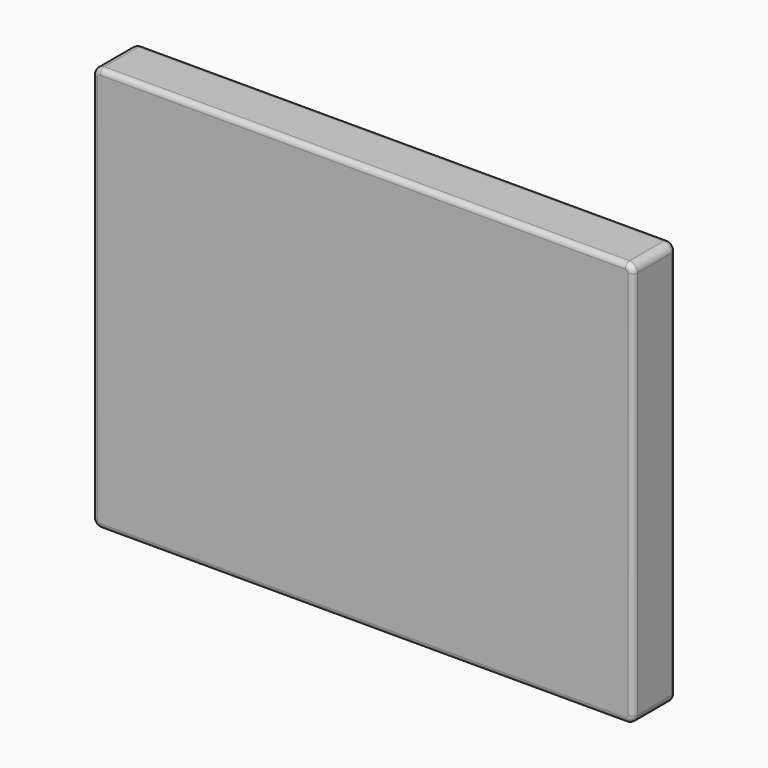
from build123d import *

# Parameters (mm, degrees)
F0_W     = 2030
F0_H     = 1520
F1_DEPTH = 200
F2_R     = 30
F3_R     = 20


with BuildPart() as f1:
    # F0 (on Front) → F1 (new body)
    with BuildSketch(Plane.XZ):
        with Locations((1015, 760)):
            Rectangle(F0_W, F0_H)
    extrude(amount=F1_DEPTH)

    # F2
    f2_edges = [f1.edges().sort_by_distance(p)[0] for p in [
        (2030, -100, 0),
        (0, -100, 0),
        (2030, -100, 1520),
        (0, -100, 1520),
    ]]
    fillet(f2_edges, radius=F2_R)

    # F3
    f3_edges = [f1.edges().sort_by_distance(p)[0] for p in [
        (1015, -200, 0),
        (1015, 0, 0),
    ]]
    fillet(f3_edges, radius=F3_R)


solid = f1.part
